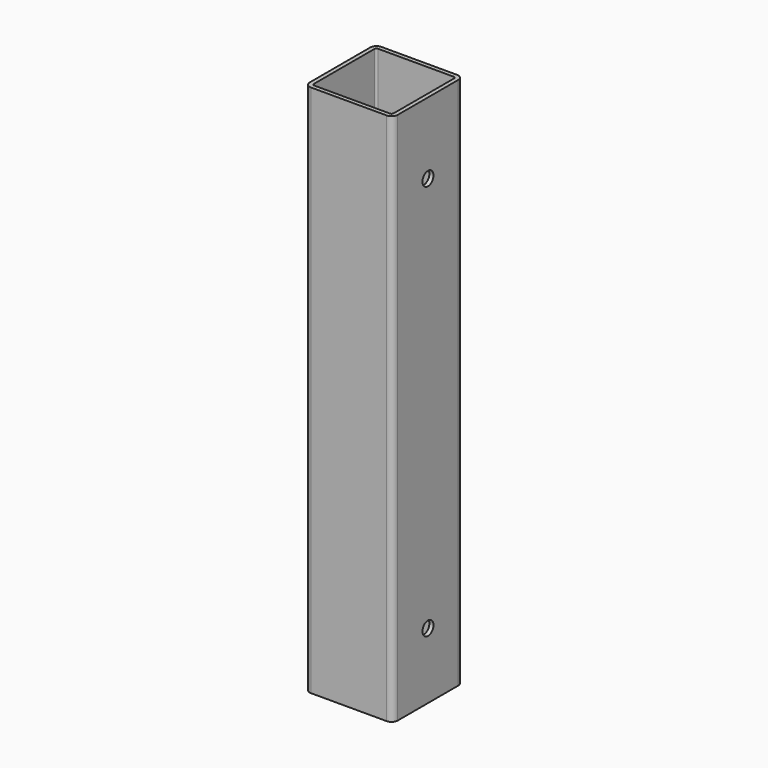
from build123d import *

# Parameters (mm, degrees)
F1_DEPTH = 615.95
F2_R     = 7.9375
F3_DEPTH = 101.601


with BuildPart() as f1:
    # F0 (on Top) → F1 (new body)
    with BuildSketch(Plane.XY):
        with BuildLine():
            Line((43.65625, 50.8), (-43.65625, 50.8))
            ThreePointArc((-43.65625, 50.8), (-48.707644, 48.707644), (-50.8, 43.65625))
            Line((-50.8, 43.65625), (-50.8, -43.65625))
            ThreePointArc((-50.8, -43.65625), (-48.707644, -48.707644), (-43.65625, -50.8))
            Line((-43.65625, -50.8), (43.65625, -50.8))
            ThreePointArc((43.65625, -50.8), (48.707644, -48.707644), (50.8, -43.65625))
            Line((50.8, -43.65625), (50.8, 43.65625))
            ThreePointArc((50.8, 43.65625), (48.707644, 48.707644), (43.65625, 50.8))
        make_face()
        with BuildLine():
            Line((43.65625, -46.0375), (-43.65625, -46.0375))
            ThreePointArc((-43.65625, -46.0375), (-45.340048, -45.340048), (-46.0375, -43.65625))
            Line((-46.0375, -43.65625), (-46.0375, 43.65625))
            ThreePointArc((-46.0375, 43.65625), (-45.340048, 45.340048), (-43.65625, 46.0375))
            Line((-43.65625, 46.0375), (43.65625, 46.0375))
            ThreePointArc((43.65625, 46.0375), (45.340048, 45.340048), (46.0375, 43.65625))
            Line((46.0375, 43.65625), (46.0375, -43.65625))
            ThreePointArc((46.0375, -43.65625), (45.340048, -45.340048), (43.65625, -46.0375))
        make_face(mode=Mode.SUBTRACT)
    extrude(amount=F1_DEPTH)

    # F2 (on face) → F3 (cut, through all)
    with BuildSketch(Plane.YZ.offset(50.8)):
        with Locations((0, 76.2)):
            Circle(F2_R)
        with Locations((0, 533.4)):
            Circle(F2_R)
    extrude(amount=-F3_DEPTH, mode=Mode.SUBTRACT)


solid = f1.part
